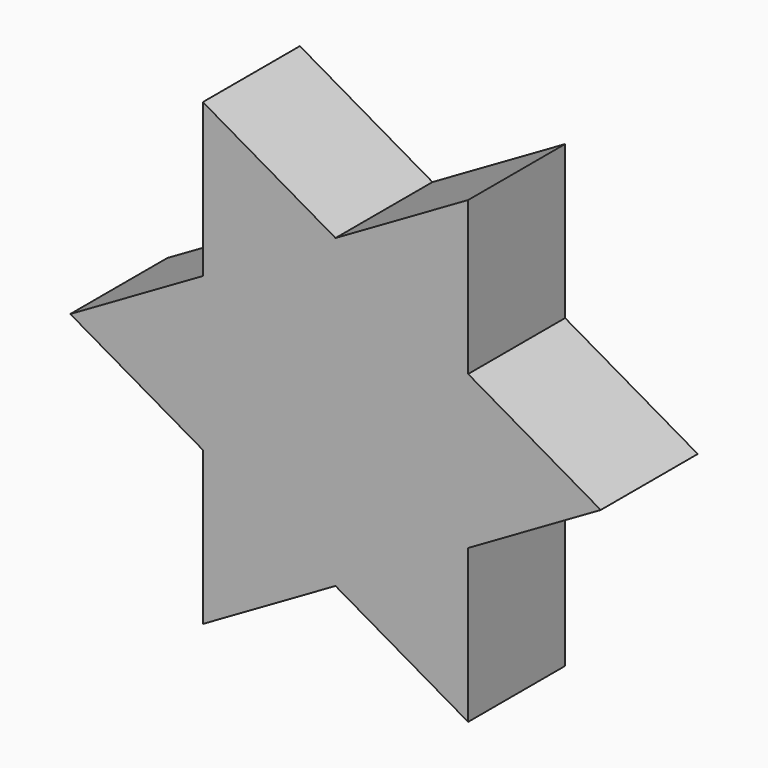
from build123d import *

# Parameters (mm, degrees)
F1_DEPTH = 25.4


with BuildPart() as f1:
    # F0 (on Front) → F1 (new body)
    with BuildSketch(Plane.XZ):
        Polygon((27.7888969147, 48.1317813425), (0, 32.0878542283), (27.7888969147, 16.0439271142), align=None)
        Polygon((27.7888969147, 16.0439271142), (0, 32.0878542283), (-27.7888969147, 16.0439271142), (-27.7888969147, -16.0439271142), (0, -32.0878542283), (27.7888969147, -16.0439271142), align=None)
        Polygon((-27.7888969147, 16.0439271142), (0, 32.0878542283), (-27.7888969147, 48.1317813425), align=None)
        Polygon((55.5777938294, 0), (27.7888969147, 16.0439271142), (27.7888969147, -16.0439271142), align=None)
        Polygon((-27.7888969147, -16.0439271142), (-27.7888969147, 16.0439271142), (-55.5777938294, 0), align=None)
        Polygon((27.7888969147, -48.1317813425), (27.7888969147, -16.0439271142), (0, -32.0878542283), align=None)
        Polygon((0, -32.0878542283), (-27.7888969147, -16.0439271142), (-27.7888969147, -48.1317813425), align=None)
    extrude(amount=F1_DEPTH)


solid = f1.part
